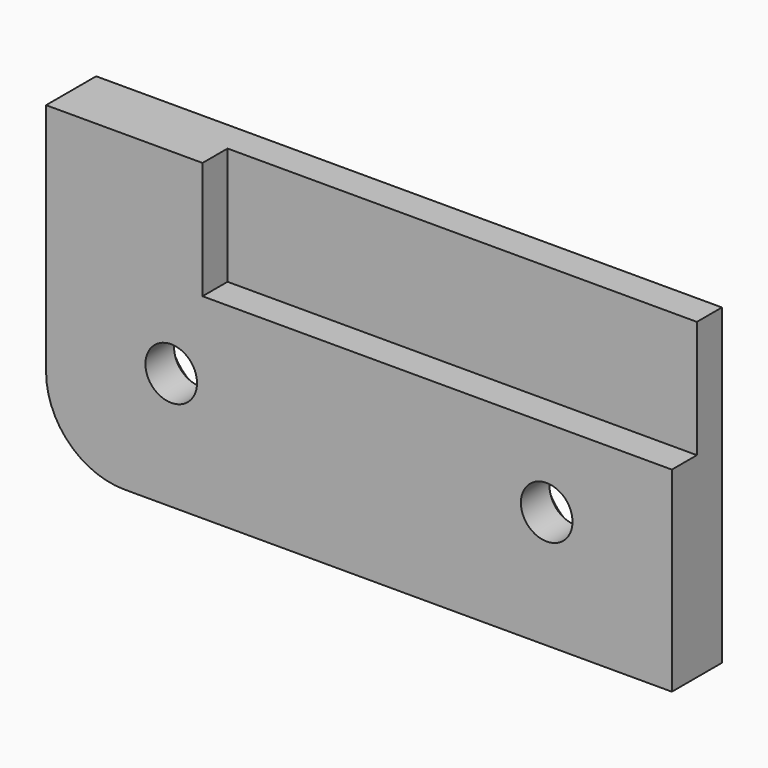
from build123d import *

# Parameters (mm, degrees)
F0_W           = 30
F0_H           = 7.5
F1_DEPTH       = 2
F0_W_2         = 10
F2_DEPTH       = 4
F3_D           = 3.3
F3_CSINK_D     = 6.72
F3_CSINK_ANGLE = 90
F4_R           = 5


with BuildPart() as f1:
    # F0 (on Front) → F1 (new body)
    with BuildSketch(Plane.XZ):
        with Locations((5, 6.25)):
            Rectangle(F0_W, F0_H)
    extrude(amount=F1_DEPTH)

    # F0 (on Front) → F2 (join)
    with BuildSketch(Plane.XZ):
        Polygon((-20, -10), (20, -10), (20, 2.5), (-10, 2.5), (-20, 2.5), align=None)
        with Locations((-15, 6.25)):
            Rectangle(F0_W_2, F0_H)
    extrude(amount=F2_DEPTH)

    # F3 (through all)
    with Locations(Plane(origin=(0, 0, 0), x_dir=(1, 0, 0), z_dir=(0, 1, 0))):
        with Locations((-12, 2.5), (12, 2.5)):
            CounterSinkHole(F3_D / 2, F3_CSINK_D / 2, counter_sink_angle=F3_CSINK_ANGLE)

    # F4
    f4_edges = [f1.edges().sort_by_distance(p)[0] for p in [
        (-20, -2, -10),
    ]]
    fillet(f4_edges, radius=F4_R)


solid = f1.part
